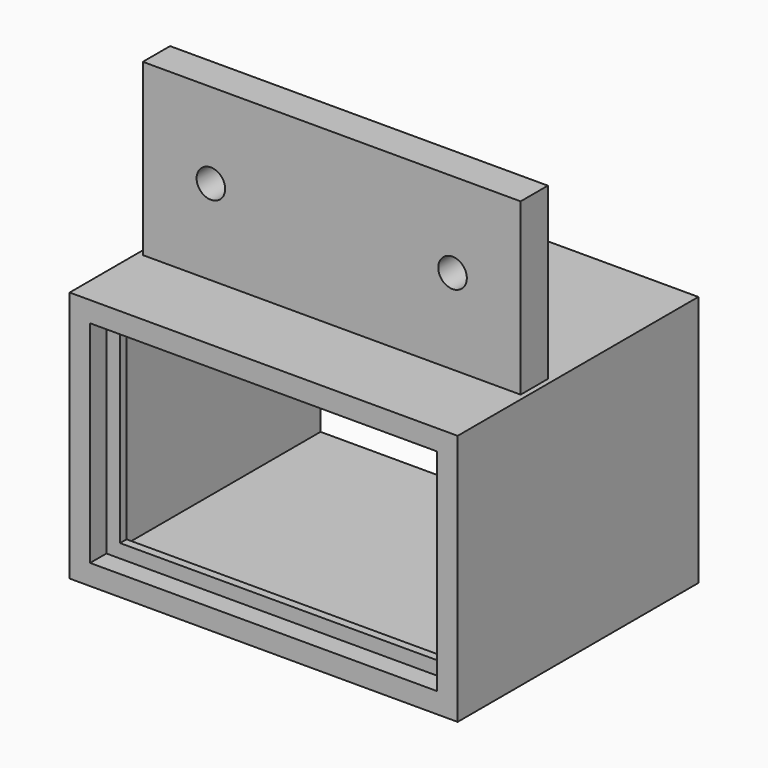
from build123d import *

# Parameters (mm, degrees)
F0_W      = 57
F0_H      = 37
F0_W_2    = 47
F0_H_2    = 27
F1_DEPTH  = 1.2
F2_W      = 57
F2_H      = 37
F2_W_2    = 51
F2_H_2    = 31
F3_DEPTH  = 3
F4_W      = 57
F4_H      = 37
F4_W_2    = 54
F4_H_2    = 34
F5_DEPTH  = 40
F6_W      = 55.5
F6_H      = 5
F7_DEPTH  = 25
F9_D      = 4.2
F11_D     = 8
F11_DEPTH = 5


with BuildPart() as f1:
    # F0 (on Front) → F1 (new body)
    with BuildSketch(Plane.XZ):
        Rectangle(F0_W, F0_H)
        Rectangle(F0_W_2, F0_H_2, mode=Mode.SUBTRACT)
    extrude(amount=F1_DEPTH)

    # F2 (on face) → F3 (join)
    with BuildSketch(Plane.XZ.offset(1.2)):
        Rectangle(F2_W, F2_H)
        Rectangle(F2_W_2, F2_H_2, mode=Mode.SUBTRACT)
    extrude(amount=F3_DEPTH)

    # F4 (on face) → F5 (join)
    with BuildSketch(Plane(origin=(0, 0, 0), x_dir=(-1, 0, 0), z_dir=(0, 1, 0))):
        Rectangle(F4_W, F4_H)
        Rectangle(F4_W_2, F4_H_2, mode=Mode.SUBTRACT)
    extrude(amount=F5_DEPTH)

    # F6 (on face) → F7 (join)
    with BuildSketch(Plane.XY.offset(18.5)):
        with Locations((0, 10.8)):
            Rectangle(F6_W, F6_H)
    extrude(amount=F7_DEPTH)

    # F9 (through all)
    with Locations(Plane.XZ.offset(-8.3)):
        with Locations((-17.75, 31), (17.75, 31)):
            Hole(F9_D / 2)

    # F11
    with Locations(Plane(origin=(-28.5, 0, 0), x_dir=(0, -1, 0), z_dir=(-1, 0, 0))):
        with Locations((-32.028917, 0)):
            Hole(F11_D / 2, depth=F11_DEPTH)


solid = f1.part
